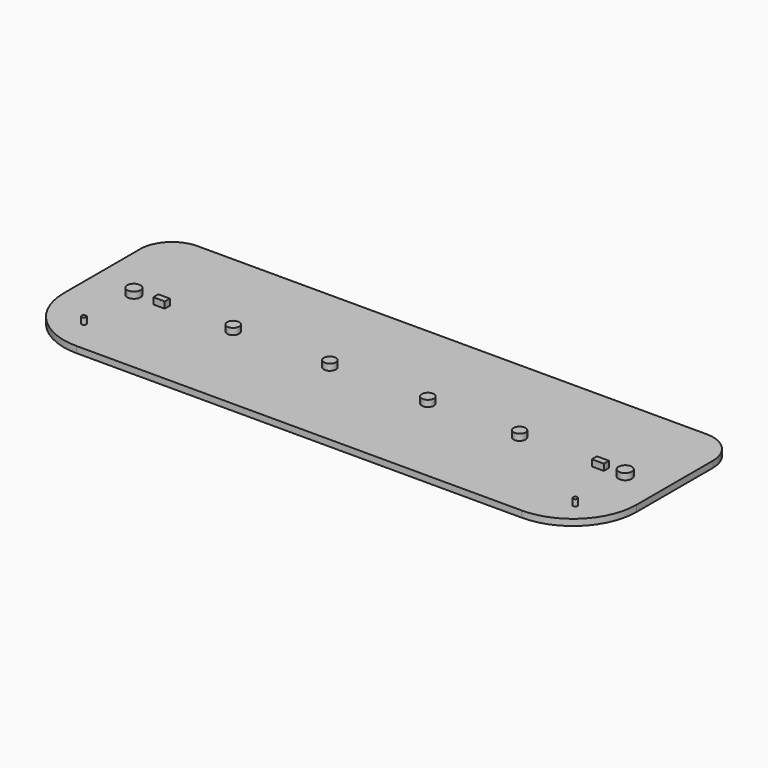
from build123d import *

# Parameters (mm, degrees)
F0_W     = 450
F0_H     = 150
F1_DEPTH = 5
F2_W     = 9
F2_H     = 5
F2_R     = 5.25
F2_R_2   = 4.75
F2_W_2   = 9.5
F2_R_3   = 1.75
F3_DEPTH = 5
F4_R     = 25
F5_R     = 50


with BuildPart() as f1:
    # F0 (on Top) → F1 (new body)
    with BuildSketch(Plane.XY):
        with Locations((-163.935045, 49.38444)):
            Rectangle(F0_W, F0_H)
    extrude(amount=F1_DEPTH)

    # F2 (on face) → F3 (join)
    with BuildSketch(Plane.XY.offset(5)):
        with Locations((-332.185045, 49.38444)):
            Rectangle(F2_W, F2_H)
        with Locations((-353.935045, 49.38444)):
            Circle(F2_R)
        with Locations((-275.935045, 49.38444)):
            Circle(F2_R_2)
        with Locations((-199.935045, 49.38444)):
            Circle(F2_R_2)
        with Locations((-122.935045, 49.38444)):
            Circle(F2_R_2)
        with Locations((-50.935045, 49.38444)):
            Circle(F2_R_2)
        with Locations((32.064955, 49.38444)):
            Circle(F2_R)
        with Locations((12.564955, 49.38444)):
            Rectangle(F2_W_2, F2_H)
        with Locations((-353.935045, 0.38444)):
            Circle(F2_R_3)
        with Locations((32.064955, 0.38444)):
            Circle(F2_R_3)
    extrude(amount=F3_DEPTH)

    # F4
    f4_edges = [f1.edges().sort_by_distance(p)[0] for p in [
        (-388.935045, 124.38444, 2.5),
        (61.064955, 124.38444, 2.5),
    ]]
    fillet(f4_edges, radius=F4_R)

    # F5
    f5_edges = [f1.edges().sort_by_distance(p)[0] for p in [
        (-388.935045, -25.61556, 2.5),
        (61.064955, -25.61556, 2.5),
    ]]
    fillet(f5_edges, radius=F5_R)


solid = f1.part
